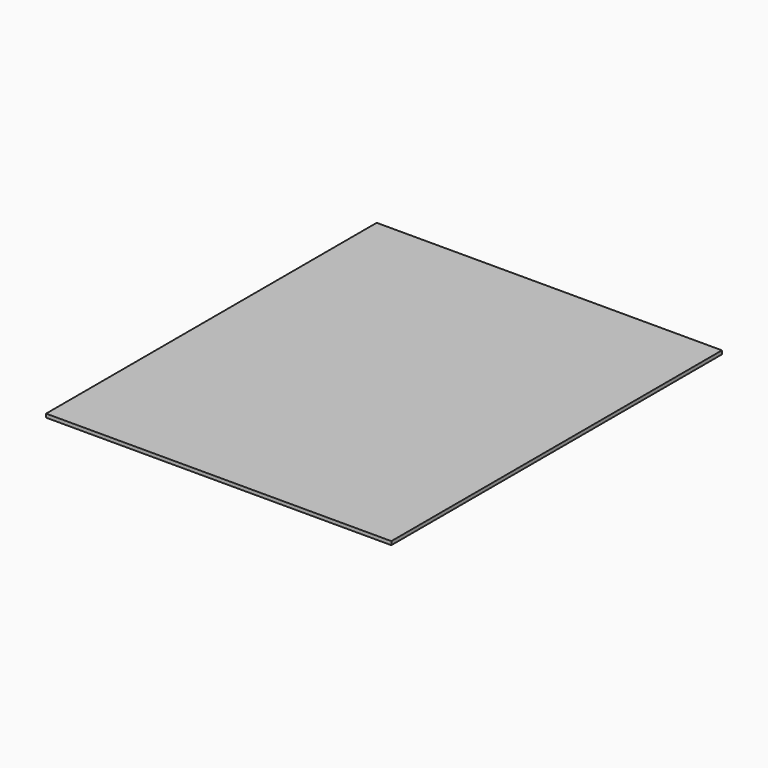
from build123d import *

# Parameters (mm, degrees)
F0_W     = 304.8
F0_H     = 60
F0_H_2   = 304.8
F1_DEPTH = 3.175


with BuildPart() as f1:
    # F0 (on Top) → F1 (new body)
    with BuildSketch(Plane.XY):
        with Locations((0, 182.4)):
            Rectangle(F0_W, F0_H)
        Rectangle(F0_W, F0_H_2)
    extrude(amount=F1_DEPTH)


solid = f1.part
